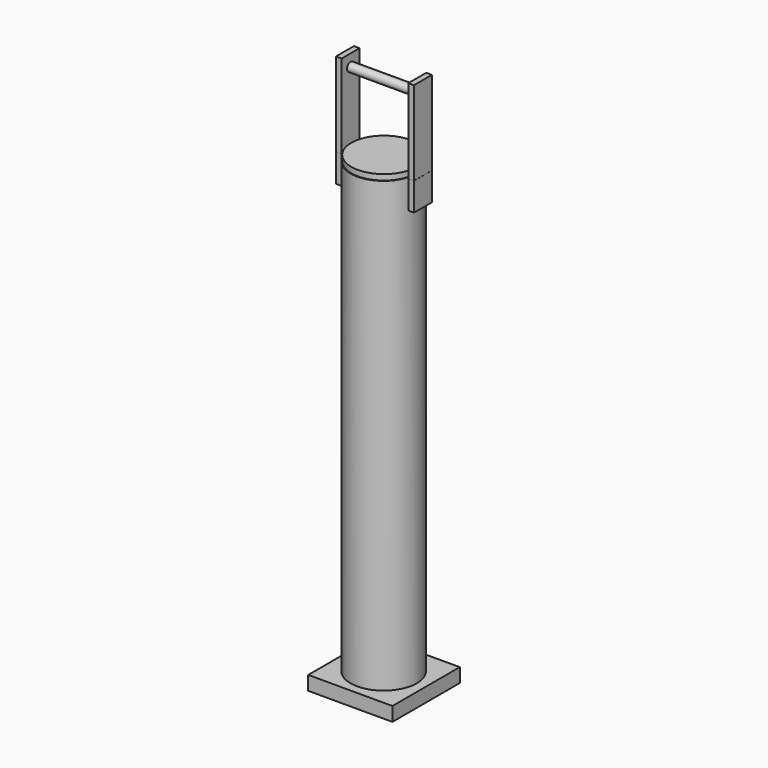
from build123d import *

# Parameters (mm, degrees)
F1_R      = 59
F1_R_2    = 55
F2_DEPTH  = 800
F5_DEPTH  = 150
F6_R      = 7.8792773039
F7_DEPTH  = 130
F8_W      = 150.0847637653
F8_H      = 150.0847563148
F9_DEPTH  = 25
F10_R     = 58.1498835162
F11_DEPTH = 10
F12_W     = 10
F12_H     = 40
F13_DEPTH = 50
F12_W_2   = 10.0821182132


with BuildPart() as f2:
    # F1 (on face) → F2 (new body)
    with BuildSketch(Plane.XY):
        with Locations((0, -0.623856195)):
            Circle(F1_R)
        with Locations((0, -0.623856195)):
            Circle(F1_R_2, mode=Mode.SUBTRACT)
    extrude(amount=F2_DEPTH)

    # F8 (on Top) → F9 (join)
    with BuildSketch(Plane.XY):
        with Locations((0.2654120326, -0.1345165074)):
            Rectangle(F8_W, F8_H)
    extrude(amount=-F9_DEPTH)

    # F10 (on face) → F11 (join)
    with BuildSketch(Plane.XY.offset(800)):
        Circle(F10_R)
    extrude(amount=F11_DEPTH)


with BuildPart() as f5:
    # F4 (on face) → F5 (new body)
    with BuildSketch(Plane.XY.offset(800)):
        Polygon((59.4776570797, 20), (59.4776570797, 0), (59.4776570797, -20), (69.4776570797, -20), (69.4776570797, 20), align=None)
    extrude(amount=F5_DEPTH)


with BuildPart() as f5b:
    # F4 (on face) → F5, piece 2 (new body)
    with BuildSketch(Plane.XY.offset(800)):
        Polygon((-59.4776570797, -20), (-59.4776570797, 0), (-59.4776570797, 20), (-69.4776570797, 20), (-69.4776570797, -20), align=None)
    extrude(amount=F5_DEPTH)


with BuildPart() as f7:
    # F6 (on face) → F7 (new body)
    with BuildSketch(Plane(origin=(-69.4776570797, 0, 0), x_dir=(0, -1, 0), z_dir=(-1, 0, 0))):
        with Locations((0, 928.9281964302)):
            Circle(F6_R)
    extrude(amount=-F7_DEPTH)


with BuildPart() as f13:
    # F12 (on face) → F13 (new body)
    with BuildSketch(Plane(origin=(0, 0, 800), x_dir=(1, 0, 0), z_dir=(0, 0, -1))):
        with Locations((-64.4776570797, 0)):
            Rectangle(F12_W, F12_H)
    extrude(amount=F13_DEPTH)


with BuildPart() as f13b:
    # F12 (on face) → F13, piece 2 (new body)
    with BuildSketch(Plane(origin=(0, 0, 800), x_dir=(1, 0, 0), z_dir=(0, 0, -1))):
        with Locations((64.5794086158, 0)):
            Rectangle(F12_W_2, F12_H)
    extrude(amount=F13_DEPTH)


solid = Compound([f2.part, f5.part, f5b.part, f7.part, f13.part, f13b.part])
